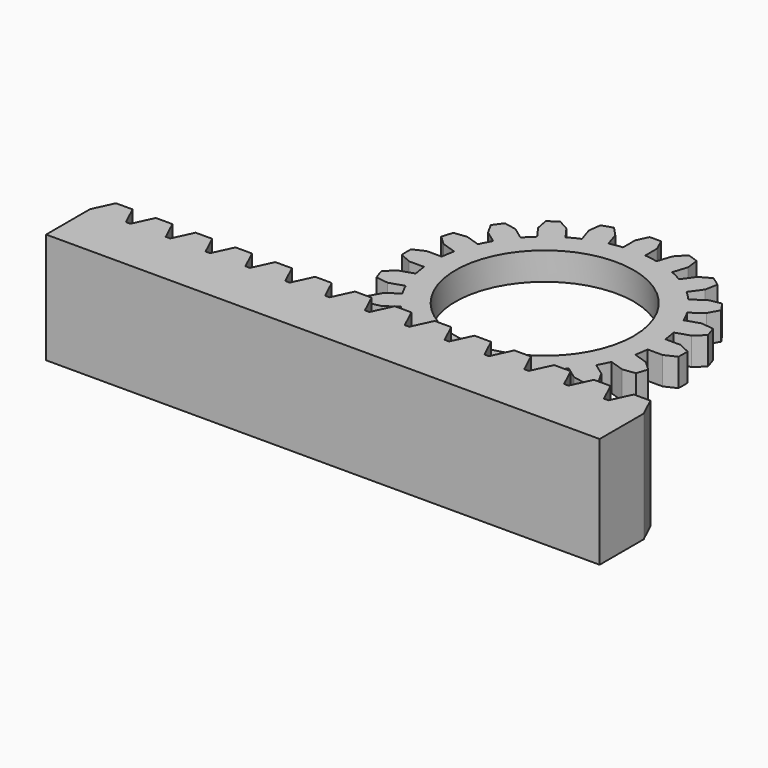
from build123d import *

# Parameters (mm, degrees)
F1_DEPTH = 2.5
F2_R     = 8.05
F3_DEPTH = 2.501
F5_DEPTH = 10


with BuildPart() as f1:
    # F0 (on Top) → F1 (new body)
    with BuildSketch(Plane.XY):
        with BuildLine():
            ThreePointArc((0.518394, 12.489246), (0, 12.5), (-0.518394, 12.489246))
            Line((-0.518394, 12.489246), (-1, 11.456439))
            Line((-1, 11.456439), (-1, 10.096058))
            ThreePointArc((-1, 10.096058), (-1.5871, 10.020554), (-2.168797, 9.910939))
            Line((-2.168797, 9.910939), (-2.589178, 11.204738))
            Line((-2.589178, 11.204738), (-3.366367, 12.038171))
            ThreePointArc((-3.366367, 12.038171), (-3.862712, 11.888206), (-4.352412, 11.717786))
            Line((-4.352412, 11.717786), (-4.491291, 10.586704))
            Line((-4.491291, 10.586704), (-4.07091, 9.292905))
            ThreePointArc((-4.07091, 9.292905), (-4.605943, 9.039672), (-5.125297, 8.755668))
            Line((-5.125297, 8.755668), (-5.924909, 9.856239))
            Line((-5.924909, 9.856239), (-6.921605, 10.408717))
            ThreePointArc((-6.921605, 10.408717), (-7.347316, 10.112712), (-7.760384, 9.799308))
            Line((-7.760384, 9.799308), (-7.542943, 8.680669))
            Line((-7.542943, 8.680669), (-6.743331, 7.580097))
            ThreePointArc((-6.743331, 7.580097), (-7.173924, 7.173924), (-7.580097, 6.743331))
            Line((-7.580097, 6.743331), (-8.680669, 7.542943))
            Line((-8.680669, 7.542943), (-9.799308, 7.760384))
            ThreePointArc((-9.799308, 7.760384), (-10.112712, 7.347316), (-10.408717, 6.921605))
            Line((-10.408717, 6.921605), (-9.856239, 5.924909))
            Line((-9.856239, 5.924909), (-8.755668, 5.125297))
            ThreePointArc((-8.755668, 5.125297), (-9.039672, 4.605943), (-9.292905, 4.07091))
            Line((-9.292905, 4.07091), (-10.586704, 4.491291))
            Line((-10.586704, 4.491291), (-11.717786, 4.352412))
            ThreePointArc((-11.717786, 4.352412), (-11.888206, 3.862712), (-12.038171, 3.366367))
            Line((-12.038171, 3.366367), (-11.204738, 2.589178))
            Line((-11.204738, 2.589178), (-9.910939, 2.168797))
            ThreePointArc((-9.910939, 2.168797), (-10.020554, 1.5871), (-10.096058, 1))
            Line((-10.096058, 1), (-11.456439, 1))
            Line((-11.456439, 1), (-12.489246, 0.518394))
            ThreePointArc((-12.489246, 0.518394), (-12.5, 0), (-12.489246, -0.518394))
            Line((-12.489246, -0.518394), (-11.456439, -1))
            Line((-11.456439, -1), (-10.096058, -1))
            ThreePointArc((-10.096058, -1), (-10.020554, -1.5871), (-9.910939, -2.168797))
            Line((-9.910939, -2.168797), (-11.204738, -2.589178))
            Line((-11.204738, -2.589178), (-12.038171, -3.366367))
            ThreePointArc((-12.038171, -3.366367), (-11.888206, -3.862712), (-11.717786, -4.352412))
            Line((-11.717786, -4.352412), (-10.586704, -4.491291))
            Line((-10.586704, -4.491291), (-9.292905, -4.07091))
            ThreePointArc((-9.292905, -4.07091), (-9.039672, -4.605943), (-8.755668, -5.125297))
            Line((-8.755668, -5.125297), (-9.856239, -5.924909))
            Line((-9.856239, -5.924909), (-10.408717, -6.921605))
            ThreePointArc((-10.408717, -6.921605), (-10.112712, -7.347316), (-9.799308, -7.760384))
            Line((-9.799308, -7.760384), (-8.680669, -7.542943))
            Line((-8.680669, -7.542943), (-7.580097, -6.743331))
            ThreePointArc((-7.580097, -6.743331), (-7.173924, -7.173924), (-6.743331, -7.580097))
            Line((-6.743331, -7.580097), (-7.542943, -8.680669))
            Line((-7.542943, -8.680669), (-7.760384, -9.799308))
            ThreePointArc((-7.760384, -9.799308), (-7.347316, -10.112712), (-6.921605, -10.408717))
            Line((-6.921605, -10.408717), (-5.924909, -9.856239))
            Line((-5.924909, -9.856239), (-5.125297, -8.755668))
            ThreePointArc((-5.125297, -8.755668), (-4.605943, -9.039672), (-4.07091, -9.292905))
            Line((-4.07091, -9.292905), (-4.491291, -10.586704))
            Line((-4.491291, -10.586704), (-4.352412, -11.717786))
            ThreePointArc((-4.352412, -11.717786), (-3.862712, -11.888206), (-3.366367, -12.038171))
            Line((-3.366367, -12.038171), (-2.589178, -11.204738))
            Line((-2.589178, -11.204738), (-2.168797, -9.910939))
            ThreePointArc((-2.168797, -9.910939), (-1.5871, -10.020554), (-1, -10.096058))
            Line((-1, -10.096058), (-1, -11.456439))
            Line((-1, -11.456439), (-0.518394, -12.489246))
            ThreePointArc((-0.518394, -12.489246), (0, -12.5), (0.518394, -12.489246))
            Line((0.518394, -12.489246), (1, -11.456439))
            Line((1, -11.456439), (1, -10.096058))
            ThreePointArc((1, -10.096058), (1.5871, -10.020554), (2.168797, -9.910939))
            Line((2.168797, -9.910939), (2.589178, -11.204738))
            Line((2.589178, -11.204738), (3.366367, -12.038171))
            ThreePointArc((3.366367, -12.038171), (3.862712, -11.888206), (4.352412, -11.717786))
            Line((4.352412, -11.717786), (4.491291, -10.586704))
            Line((4.491291, -10.586704), (4.07091, -9.292905))
            ThreePointArc((4.07091, -9.292905), (4.605943, -9.039672), (5.125297, -8.755668))
            Line((5.125297, -8.755668), (5.924909, -9.856239))
            Line((5.924909, -9.856239), (6.921605, -10.408717))
            ThreePointArc((6.921605, -10.408717), (7.347316, -10.112712), (7.760384, -9.799308))
            Line((7.760384, -9.799308), (7.542943, -8.680669))
            Line((7.542943, -8.680669), (6.743331, -7.580097))
            ThreePointArc((6.743331, -7.580097), (7.173924, -7.173924), (7.580097, -6.743331))
            Line((7.580097, -6.743331), (8.680669, -7.542943))
            Line((8.680669, -7.542943), (9.799308, -7.760384))
            ThreePointArc((9.799308, -7.760384), (10.112712, -7.347316), (10.408717, -6.921605))
            Line((10.408717, -6.921605), (9.856239, -5.924909))
            Line((9.856239, -5.924909), (8.755668, -5.125297))
            ThreePointArc((8.755668, -5.125297), (9.039672, -4.605943), (9.292905, -4.07091))
            Line((9.292905, -4.07091), (10.586704, -4.491291))
            Line((10.586704, -4.491291), (11.717786, -4.352412))
            ThreePointArc((11.717786, -4.352412), (11.888206, -3.862712), (12.038171, -3.366367))
            Line((12.038171, -3.366367), (11.204738, -2.589178))
            Line((11.204738, -2.589178), (9.910939, -2.168797))
            ThreePointArc((9.910939, -2.168797), (10.020554, -1.5871), (10.096058, -1))
            Line((10.096058, -1), (11.456439, -1))
            Line((11.456439, -1), (12.489246, -0.518394))
            ThreePointArc((12.489246, -0.518394), (12.5, 0), (12.489246, 0.518394))
            Line((12.489246, 0.518394), (11.456439, 1))
            Line((11.456439, 1), (10.096058, 1))
            ThreePointArc((10.096058, 1), (10.020554, 1.5871), (9.910939, 2.168797))
            Line((9.910939, 2.168797), (11.204738, 2.589178))
            Line((11.204738, 2.589178), (12.038171, 3.366367))
            ThreePointArc((12.038171, 3.366367), (11.888206, 3.862712), (11.717786, 4.352412))
            Line((11.717786, 4.352412), (10.586704, 4.491291))
            Line((10.586704, 4.491291), (9.292905, 4.07091))
            ThreePointArc((9.292905, 4.07091), (9.039672, 4.605943), (8.755668, 5.125297))
            Line((8.755668, 5.125297), (9.856239, 5.924909))
            Line((9.856239, 5.924909), (10.408717, 6.921605))
            ThreePointArc((10.408717, 6.921605), (10.112712, 7.347316), (9.799308, 7.760384))
            Line((9.799308, 7.760384), (8.680669, 7.542943))
            Line((8.680669, 7.542943), (7.580097, 6.743331))
            ThreePointArc((7.580097, 6.743331), (7.173924, 7.173924), (6.743331, 7.580097))
            Line((6.743331, 7.580097), (7.542943, 8.680669))
            Line((7.542943, 8.680669), (7.760384, 9.799308))
            ThreePointArc((7.760384, 9.799308), (7.347316, 10.112712), (6.921605, 10.408717))
            Line((6.921605, 10.408717), (5.924909, 9.856239))
            Line((5.924909, 9.856239), (5.125297, 8.755668))
            ThreePointArc((5.125297, 8.755668), (4.605943, 9.039672), (4.07091, 9.292905))
            Line((4.07091, 9.292905), (4.491291, 10.586704))
            Line((4.491291, 10.586704), (4.352412, 11.717786))
            ThreePointArc((4.352412, 11.717786), (3.862712, 11.888206), (3.366367, 12.038171))
            Line((3.366367, 12.038171), (2.589178, 11.204738))
            Line((2.589178, 11.204738), (2.168797, 9.910939))
            ThreePointArc((2.168797, 9.910939), (1.5871, 10.020554), (1, 10.096058))
            Line((1, 10.096058), (1, 11.456439))
            Line((1, 11.456439), (0.518394, 12.489246))
        make_face()
    extrude(amount=F1_DEPTH)

    # F2 (on face) → F3 (cut, through all)
    with BuildSketch(Plane.XY.offset(2.5)):
        Circle(F2_R)
    extrude(amount=-F3_DEPTH, mode=Mode.SUBTRACT)


with BuildPart() as f5:
    # F4 (on Top) → F5 (new body)
    with BuildSketch(Plane.XY):
        Polygon((-24.982172, -20.047814), (-25, -20.047814), (-25, -25.047814), (25, -25.047814), (25, -20.047814), (24.982172, -20.047814), (21.791698, -20.047814), (21.384182, -20.047814), (18.193708, -20.047814), (17.786192, -20.047814), (14.595718, -20.047814), (14.188202, -20.047814), (10.997728, -20.047814), (10.590212, -20.047814), (7.399738, -20.047814), (6.992222, -20.047814), (3.801748, -20.047814), (3.394232, -20.047814), (0.203758, -20.047814), (-0.203758, -20.047814), (-3.394232, -20.047814), (-3.801748, -20.047814), (-6.992222, -20.047814), (-7.399738, -20.047814), (-10.590212, -20.047814), (-10.997728, -20.047814), (-14.188202, -20.047814), (-14.595718, -20.047814), (-17.786192, -20.047814), (-18.193708, -20.047814), (-21.384182, -20.047814), (-21.791698, -20.047814), align=None)
        Polygon((-24.136935, -18.235198), (-24.982172, -20.047814), (-21.791698, -20.047814), (-22.636935, -18.235198), align=None)
        Polygon((-20.538945, -18.235198), (-21.384182, -20.047814), (-18.193708, -20.047814), (-19.038945, -18.235198), align=None)
        Polygon((21.791698, -20.047814), (24.982172, -20.047814), (24.136935, -18.235198), (22.636935, -18.235198), align=None)
        Polygon((-16.940955, -18.235198), (-17.786192, -20.047814), (-14.595718, -20.047814), (-15.440955, -18.235198), align=None)
        Polygon((18.193708, -20.047814), (21.384182, -20.047814), (20.538945, -18.235198), (19.038945, -18.235198), align=None)
        Polygon((-13.342965, -18.235198), (-14.188202, -20.047814), (-10.997728, -20.047814), (-11.842965, -18.235198), align=None)
        Polygon((14.595718, -20.047814), (17.786192, -20.047814), (16.940955, -18.235198), (15.440955, -18.235198), align=None)
        Polygon((-9.744975, -18.235198), (-10.590212, -20.047814), (-7.399738, -20.047814), (-8.244975, -18.235198), align=None)
        Polygon((10.997728, -20.047814), (14.188202, -20.047814), (13.342965, -18.235198), (11.842965, -18.235198), align=None)
        Polygon((-6.146985, -18.235198), (-6.992222, -20.047814), (-3.801748, -20.047814), (-4.646985, -18.235198), align=None)
        Polygon((7.399738, -20.047814), (10.590212, -20.047814), (9.744975, -18.235198), (8.244975, -18.235198), align=None)
        Polygon((-2.548995, -18.235198), (-3.394232, -20.047814), (-0.203758, -20.047814), (-1.048995, -18.235198), align=None)
        Polygon((3.801748, -20.047814), (6.992222, -20.047814), (6.146985, -18.235198), (4.646985, -18.235198), align=None)
        Polygon((1.048995, -18.235198), (0.203758, -20.047814), (3.394232, -20.047814), (2.548995, -18.235198), align=None)
    extrude(amount=F5_DEPTH)


solid = Compound([f1.part, f5.part])
